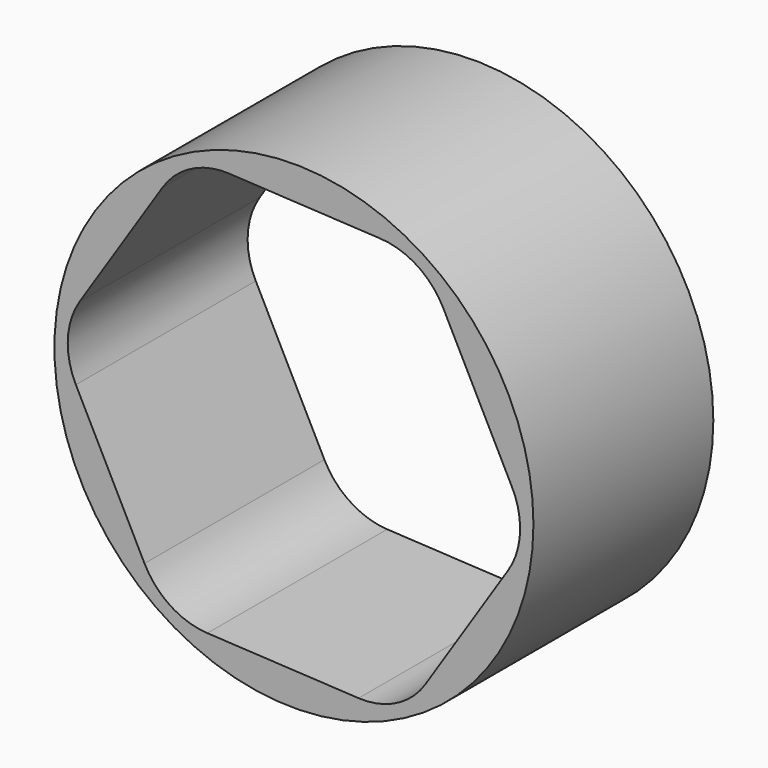
from build123d import *

# Parameters (mm, degrees)
F0_R     = 4.0581916303
F1_DEPTH = 1.905
F2_R     = 1.27


with BuildPart() as f1:
    # F0 (on Front) → F1 (new body, symmetric)
    with BuildSketch(Plane.XZ):
        Circle(F0_R)
        Polygon((-1.8276859231, 3.5948536131), (2.1993915903, 3.3802492461), (4.0270775134, -0.2146043671), (1.8276859231, -3.5948536131), (-2.1993915903, -3.3802492461), (-4.0270775134, 0.2146043671), align=None, mode=Mode.SUBTRACT)
    extrude(amount=F1_DEPTH, both=True)

    # F2
    f2_edges = [f1.edges().sort_by_distance(p)[0] for p in [
        (-1.827686, 0, 3.594854),
        (2.199392, 0, 3.380249),
        (4.027078, 0, -0.214604),
        (-4.027078, 0, 0.214604),
        (-2.199392, 0, -3.380249),
        (1.827686, 0, -3.594854),
    ]]
    fillet(f2_edges, radius=F2_R)


solid = f1.part
